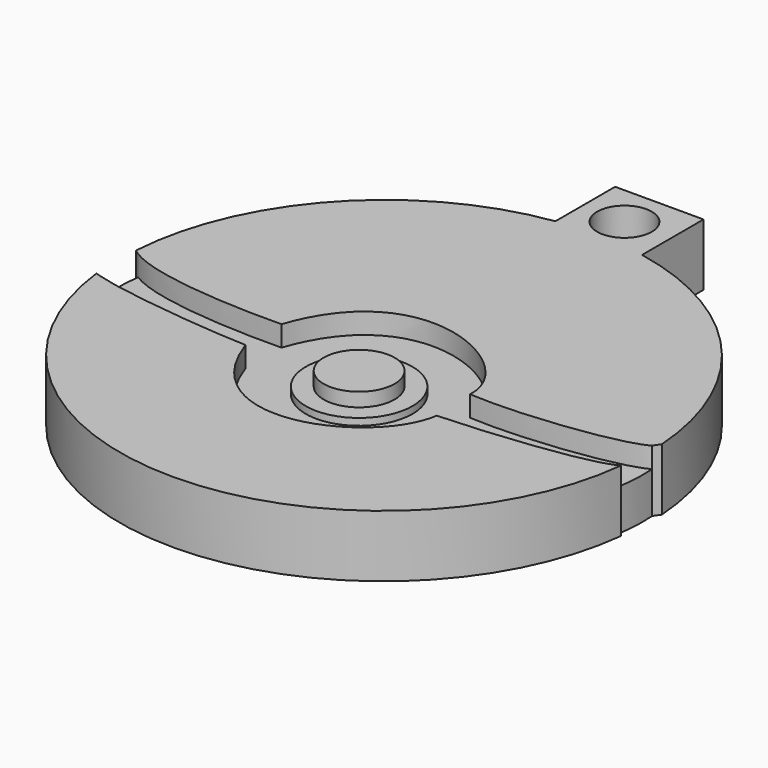
from build123d import *

# Parameters (mm, degrees)
F0_R     = 5.150035
F0_R_2   = 3.961987
F1_DEPTH = 9
F0_R_3   = 7.741214
F2_DEPTH = 6
F3_DEPTH = 7


with BuildPart() as f1:
    # F0 (on Top) → F1 (new body)
    with BuildSketch(Plane.XY):
        with BuildLine():
            add(Edge.make_bspline(
                [(-91.317542, -10.967116), (-86.64373, -13.858178), (-75.341257, -14.445624), (-67.806959, -14.301113)],
                knots=[1.221144, 1.221144, 1.221144, 1.221144, 24.488166, 24.488166, 24.488166, 24.488166], degree=3))
            add(Edge.make_bspline(
                [(-40.39795, -14.383757), (-39.723586, -5.585385), (-61.1616, 5.31907), (-67.806959, -14.301113)],
                knots=[0, 0, 0, 0, 27.409134, 27.409134, 27.409134, 27.409134], degree=3))
            add(Edge.make_bspline(
                [(-40.39795, -14.383757), (-33.312143, -14.897632), (-19.552754, -13.304103), (-16.391562, -11.32243)],
                knots=[0, 0, 0, 0, 21.643832, 21.643832, 21.643832, 21.643832], degree=3))
            Line((-16.391562, -11.32243), (-15.747862, -10.386982))
            ThreePointArc((-15.747862, -10.386982), (-25.2145, 12.283506), (-46.526868, 24.50444))
            Line((-46.526868, 24.50444), (-46.526868, 23.27941))
            Line((-46.526868, 23.27941), (-59.356738, 23.27941))
            Line((-59.356738, 23.27941), (-59.356738, 24.820338))
            ThreePointArc((-59.356738, 24.820338), (-81.928546, 12.942305), (-91.997162, -10.49265))
            Line((-91.997162, -10.49265), (-91.317542, -10.967116))
        make_face()
        with BuildLine():
            add(Edge.make_bspline(
                [(-67.806959, -20.841723), (-61.319683, -39.555024), (-41.559912, -31.048808), (-40.048894, -20.841723)],
                knots=[0, 0, 0, 0, 27.758066, 27.758066, 27.758066, 27.758066], degree=3))
            add(Edge.make_bspline(
                [(-91.241727, -17.905849), (-86.307066, -19.370394), (-73.921331, -20.639642), (-67.806959, -20.841723)],
                knots=[1.260164, 1.260164, 1.260164, 1.260164, 24.380885, 24.380885, 24.380885, 24.380885], degree=3))
            add(Edge.make_bspline(
                [(-91.979973, -17.664781), (-91.757507, -17.745623), (-91.510684, -17.826026), (-91.241727, -17.905849)],
                knots=[0, 0, 0, 0, 1.260164, 1.260164, 1.260164, 1.260164], degree=3))
            ThreePointArc((-91.979973, -17.664781), (-53.883548, -51.259255), (-16.087698, -17.32697))
            add(Edge.make_bspline(
                [(-16.761014, -17.670424), (-16.49914, -17.558172), (-16.273367, -17.443651), (-16.087698, -17.32697)],
                knots=[22.749196, 22.749196, 22.749196, 22.749196, 24.217605, 24.217605, 24.217605, 24.217605], degree=3))
            add(Edge.make_bspline(
                [(-40.048894, -20.841723), (-33.540111, -20.603637), (-20.818081, -19.409468), (-16.761014, -17.670424)],
                knots=[0, 0, 0, 0, 22.749196, 22.749196, 22.749196, 22.749196], degree=3))
        make_face()
        with Locations((-53.800639, -17.735399)):
            Circle(F0_R)
        with BuildLine():
            Line((-59.356738, 35.656463), (-59.356738, 24.820338))
            ThreePointArc((-59.356738, 24.820338), (-52.928445, 25.204892), (-46.526868, 24.50444))
            Line((-46.526868, 24.50444), (-46.526868, 35.656463))
            Line((-46.526868, 35.656463), (-59.356738, 35.656463))
        make_face()
        with Locations((-53.168215, 29.618876)):
            Circle(F0_R_2, mode=Mode.SUBTRACT)
        with BuildLine():
            ThreePointArc((-46.526868, 24.50444), (-52.928445, 25.204892), (-59.356738, 24.820338))
            Line((-59.356738, 24.820338), (-59.356738, 23.27941))
            Line((-59.356738, 23.27941), (-46.526868, 23.27941))
            Line((-46.526868, 23.27941), (-46.526868, 24.50444))
        make_face()
    extrude(amount=F1_DEPTH)

    # F0 (on Top) → F2 (join)
    with BuildSketch(Plane.XY):
        with BuildLine():
            add(Edge.make_bspline(
                [(-91.241727, -17.905849), (-86.307066, -19.370394), (-73.921331, -20.639642), (-67.806959, -20.841723)],
                knots=[1.260164, 1.260164, 1.260164, 1.260164, 24.380885, 24.380885, 24.380885, 24.380885], degree=3))
            Line((-67.806959, -20.841723), (-67.806959, -14.301113))
            add(Edge.make_bspline(
                [(-91.317542, -10.967116), (-86.64373, -13.858178), (-75.341257, -14.445624), (-67.806959, -14.301113)],
                knots=[1.221144, 1.221144, 1.221144, 1.221144, 24.488166, 24.488166, 24.488166, 24.488166], degree=3))
            ThreePointArc((-91.317542, -10.967116), (-91.519995, -14.439109), (-91.241727, -17.905849))
        make_face()
        with BuildLine():
            Line((-40.39795, -14.383757), (-40.048894, -20.841723))
            add(Edge.make_bspline(
                [(-40.048894, -20.841723), (-33.540111, -20.603637), (-20.818081, -19.409468), (-16.761014, -17.670424)],
                knots=[0, 0, 0, 0, 22.749196, 22.749196, 22.749196, 22.749196], degree=3))
            ThreePointArc((-16.761014, -17.670424), (-16.375445, -14.508116), (-16.391562, -11.32243))
            add(Edge.make_bspline(
                [(-40.39795, -14.383757), (-33.312143, -14.897632), (-19.552754, -13.304103), (-16.391562, -11.32243)],
                knots=[0, 0, 0, 0, 21.643832, 21.643832, 21.643832, 21.643832], degree=3))
        make_face()
        with BuildLine():
            Line((-67.806959, -14.301113), (-67.806959, -20.841723))
            add(Edge.make_bspline(
                [(-67.806959, -20.841723), (-61.319683, -39.555024), (-41.559912, -31.048808), (-40.048894, -20.841723)],
                knots=[0, 0, 0, 0, 27.758066, 27.758066, 27.758066, 27.758066], degree=3))
            Line((-40.048894, -20.841723), (-40.39795, -14.383757))
            add(Edge.make_bspline(
                [(-40.39795, -14.383757), (-39.723586, -5.585385), (-61.1616, 5.31907), (-67.806959, -14.301113)],
                knots=[0, 0, 0, 0, 27.409134, 27.409134, 27.409134, 27.409134], degree=3))
        make_face()
        with Locations((-53.800639, -17.735399)):
            Circle(F0_R_3, mode=Mode.SUBTRACT)
    extrude(amount=F2_DEPTH)

    # F0 (on Top) → F3 (join)
    with BuildSketch(Plane.XY):
        with Locations((-53.800639, -17.735399)):
            Circle(F0_R_3)
        with Locations((-53.800639, -17.735399)):
            Circle(F0_R, mode=Mode.SUBTRACT)
    extrude(amount=F3_DEPTH)


solid = f1.part
